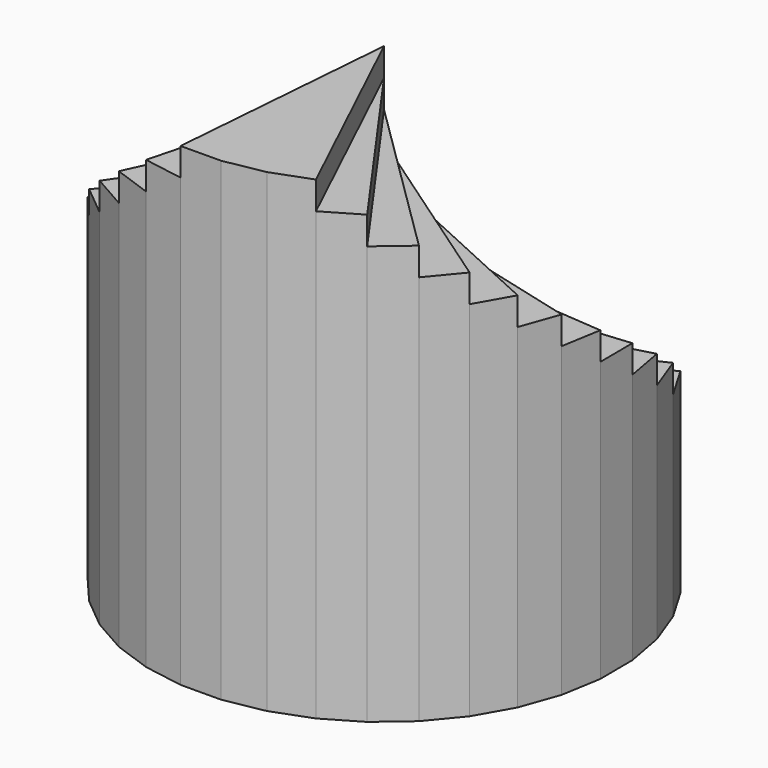
from build123d import *

# Parameters (mm, degrees)
F1_DEPTH  = 2.54
F2_DEPTH  = 5.08
F3_DEPTH  = 7.62
F4_DEPTH  = 10.16
F5_DEPTH  = 12.7
F6_DEPTH  = 15.24
F7_DEPTH  = 17.78
F8_DEPTH  = 20.32
F9_DEPTH  = 22.86
F10_DEPTH = 25.4
F11_DEPTH = 27.94
F12_DEPTH = 30.48
F13_DEPTH = 33.02
F14_DEPTH = 35.56
F15_DEPTH = 38.1
F16_DEPTH = 40.64
F17_DEPTH = 43.18
F18_DEPTH = 43.18
F19_DEPTH = 43.18
F20_DEPTH = 40.64
F21_DEPTH = 38.1
F22_DEPTH = 35.56
F23_DEPTH = 33.02
F24_DEPTH = 30.48
F25_DEPTH = 27.94
F26_DEPTH = 25.4
F27_DEPTH = 22.86
F28_DEPTH = 20.32
F29_DEPTH = 17.78
F30_DEPTH = 15.24
F31_DEPTH = 12.7
F32_DEPTH = 10.16
F33_DEPTH = 7.62
F34_DEPTH = 5.08
F35_DEPTH = 2.54
F36_DEPTH = 1.27


with BuildPart() as f1:
    # F0 (on Top) → F1 (new body)
    with BuildSketch(Plane.XY):
        Polygon((-1.990034, 21.009007), (0, 0), (1.688375, 21.035399), align=None)
    extrude(amount=F1_DEPTH)

    # F0 (on Top) → F2 (join)
    with BuildSketch(Plane.XY):
        Polygon((1.688375, 21.035399), (0, 0), (5.315483, 20.422641), align=None)
    extrude(amount=F2_DEPTH)

    # F0 (on Top) → F3 (join)
    with BuildSketch(Plane.XY):
        Polygon((5.315483, 20.422641), (0, 0), (8.781084, 19.189351), align=None)
    extrude(amount=F3_DEPTH)

    # F0 (on Top) → F4 (join)
    with BuildSketch(Plane.XY):
        Polygon((8.781084, 19.189351), (0, 0), (11.979875, 17.373003), align=None)
    extrude(amount=F4_DEPTH)

    # F0 (on Top) → F5 (join)
    with BuildSketch(Plane.XY):
        Polygon((0, 0), (14.814664, 15.028784), (11.979875, 17.373003), align=None)
    extrude(amount=F5_DEPTH)

    # F0 (on Top) → F6 (join)
    with BuildSketch(Plane.XY):
        Polygon((0, 0), (17.199317, 12.227924), (14.814664, 15.028784), align=None)
    extrude(amount=F6_DEPTH)

    # F0 (on Top) → F7 (join)
    with BuildSketch(Plane.XY):
        Polygon((19.061377, 9.055524), (17.199317, 12.227924), (0, 0), align=None)
    extrude(amount=F7_DEPTH)

    # F0 (on Top) → F8 (join)
    with BuildSketch(Plane.XY):
        Polygon((20.344267, 5.607977), (19.061377, 9.055524), (0, 0), align=None)
    extrude(amount=F8_DEPTH)

    # F0 (on Top) → F9 (join)
    with BuildSketch(Plane.XY):
        Polygon((20.344267, 5.607977), (0, 0), (21.009007, 1.990034), align=None)
    extrude(amount=F9_DEPTH)

    # F0 (on Top) → F10 (join)
    with BuildSketch(Plane.XY):
        Polygon((21.009007, 1.990034), (0, 0), (21.035399, -1.688375), align=None)
    extrude(amount=F10_DEPTH)

    # F0 (on Top) → F11 (join)
    with BuildSketch(Plane.XY):
        Polygon((21.035399, -1.688375), (0, 0), (20.422641, -5.315483), align=None)
    extrude(amount=F11_DEPTH)

    # F0 (on Top) → F12 (join)
    with BuildSketch(Plane.XY):
        Polygon((20.422641, -5.315483), (0, 0), (19.189351, -8.781084), align=None)
    extrude(amount=F12_DEPTH)

    # F0 (on Top) → F13 (join)
    with BuildSketch(Plane.XY):
        Polygon((19.189351, -8.781084), (0, 0), (17.373003, -11.979875), align=None)
    extrude(amount=F13_DEPTH)

    # F0 (on Top) → F14 (join)
    with BuildSketch(Plane.XY):
        Polygon((17.373003, -11.979875), (0, 0), (15.028784, -14.814664), align=None)
    extrude(amount=F14_DEPTH)

    # F0 (on Top) → F15 (join)
    with BuildSketch(Plane.XY):
        Polygon((15.028784, -14.814664), (0, 0), (12.227924, -17.199317), align=None)
    extrude(amount=F15_DEPTH)

    # F0 (on Top) → F16 (join)
    with BuildSketch(Plane.XY):
        Polygon((12.227924, -17.199317), (0, 0), (9.055524, -19.061377), align=None)
    extrude(amount=F16_DEPTH)

    # F0 (on Top) → F17 (join)
    with BuildSketch(Plane.XY):
        Polygon((9.055524, -19.061377), (0, 0), (5.607977, -20.344267), align=None)
    extrude(amount=F17_DEPTH)

    # F0 (on Top) → F18 (join)
    with BuildSketch(Plane.XY):
        Polygon((5.607977, -20.344267), (0, 0), (1.990034, -21.009007), align=None)
    extrude(amount=F18_DEPTH)

    # F0 (on Top) → F19 (join)
    with BuildSketch(Plane.XY):
        Polygon((1.990034, -21.009007), (0, 0), (-1.688375, -21.035399), align=None)
    extrude(amount=F19_DEPTH)

    # F0 (on Top) → F20 (join)
    with BuildSketch(Plane.XY):
        Polygon((-1.688375, -21.035399), (0, 0), (-5.315483, -20.422641), align=None)
    extrude(amount=F20_DEPTH)

    # F0 (on Top) → F21 (join)
    with BuildSketch(Plane.XY):
        Polygon((-5.315483, -20.422641), (0, 0), (-8.781084, -19.189351), align=None)
    extrude(amount=F21_DEPTH)

    # F0 (on Top) → F22 (join)
    with BuildSketch(Plane.XY):
        Polygon((-8.781084, -19.189351), (0, 0), (-11.979875, -17.373003), align=None)
    extrude(amount=F22_DEPTH)

    # F0 (on Top) → F23 (join)
    with BuildSketch(Plane.XY):
        Polygon((-11.979875, -17.373003), (0, 0), (-14.814664, -15.028784), align=None)
    extrude(amount=F23_DEPTH)

    # F0 (on Top) → F24 (join)
    with BuildSketch(Plane.XY):
        Polygon((-14.814664, -15.028784), (0, 0), (-17.199317, -12.227924), align=None)
    extrude(amount=F24_DEPTH)

    # F0 (on Top) → F25 (join)
    with BuildSketch(Plane.XY):
        Polygon((-17.199317, -12.227924), (0, 0), (-19.061377, -9.055524), align=None)
    extrude(amount=F25_DEPTH)

    # F0 (on Top) → F26 (join)
    with BuildSketch(Plane.XY):
        Polygon((-19.061377, -9.055524), (0, 0), (-20.344267, -5.607977), align=None)
    extrude(amount=F26_DEPTH)

    # F0 (on Top) → F27 (join)
    with BuildSketch(Plane.XY):
        Polygon((-20.344267, -5.607977), (0, 0), (-21.009007, -1.990034), align=None)
    extrude(amount=F27_DEPTH)

    # F0 (on Top) → F28 (join)
    with BuildSketch(Plane.XY):
        Polygon((-21.009007, -1.990034), (0, 0), (-21.035399, 1.688375), align=None)
    extrude(amount=F28_DEPTH)

    # F0 (on Top) → F29 (join)
    with BuildSketch(Plane.XY):
        Polygon((-21.035399, 1.688375), (0, 0), (-20.422641, 5.315483), align=None)
    extrude(amount=F29_DEPTH)

    # F0 (on Top) → F30 (join)
    with BuildSketch(Plane.XY):
        Polygon((-20.422641, 5.315483), (0, 0), (-19.189351, 8.781084), align=None)
    extrude(amount=F30_DEPTH)

    # F0 (on Top) → F31 (join)
    with BuildSketch(Plane.XY):
        Polygon((-19.189351, 8.781084), (0, 0), (-17.373003, 11.979875), align=None)
    extrude(amount=F31_DEPTH)

    # F0 (on Top) → F32 (join)
    with BuildSketch(Plane.XY):
        Polygon((-17.373003, 11.979875), (0, 0), (-15.028784, 14.814664), align=None)
    extrude(amount=F32_DEPTH)

    # F0 (on Top) → F33 (join)
    with BuildSketch(Plane.XY):
        Polygon((-15.028784, 14.814664), (0, 0), (-12.227924, 17.199317), align=None)
    extrude(amount=F33_DEPTH)

    # F0 (on Top) → F34 (join)
    with BuildSketch(Plane.XY):
        Polygon((-12.227924, 17.199317), (0, 0), (-9.055524, 19.061377), align=None)
    extrude(amount=F34_DEPTH)

    # F0 (on Top) → F35 (join)
    with BuildSketch(Plane.XY):
        Polygon((-9.055524, 19.061377), (0, 0), (-5.607977, 20.344267), align=None)
    extrude(amount=F35_DEPTH)

    # F0 (on Top) → F36 (join)
    with BuildSketch(Plane.XY):
        Polygon((-5.607977, 20.344267), (0, 0), (-1.990034, 21.009007), align=None)
    extrude(amount=F36_DEPTH)


solid = f1.part
